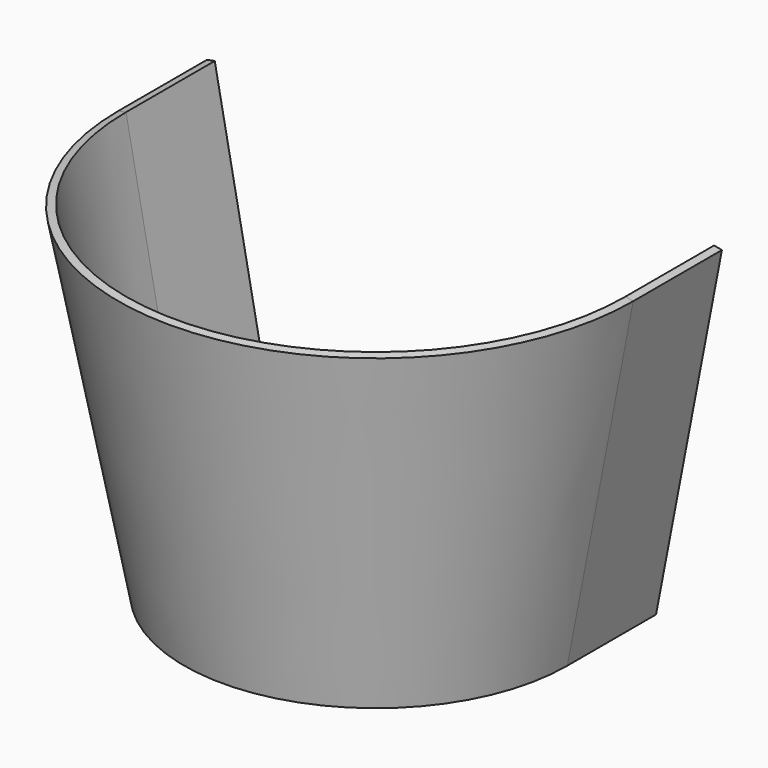
from build123d import *

# Parameters (mm, degrees)
F1_ANGLE_BACK = 90
F1_ANGLE      = 180
F3_DEPTH      = 7


with BuildPart() as f1:
    # F0 (on Right) → F1 (revolve)
    with BuildSketch(Plane.YZ, mode=Mode.PRIVATE) as f1_sk:
        Polygon((0.4909958506, 0.094462028), (0, 0), (4.1563292317, -21.6038174247), (4.6473250822, -21.5093553967), align=None)
    revolve(f1_sk.sketch.rotate(Axis((0, 16.25, -7.0485672913), (0, 0, -1)), -F1_ANGLE_BACK), axis=Axis((0, 16.25, -7.0485672913), (0, 0, -1)), revolution_arc=F1_ANGLE)

    # F3 (add): faces of the model
    f3_faces = [f1.faces().sort_by_distance(p)[0] for p in [
        (13.9263374589, 16.25, -10.7546776983),
        (-13.9263374589, 16.25, -10.7546776983),
    ]]
    extrude(f3_faces, amount=F3_DEPTH)


solid = f1.part
